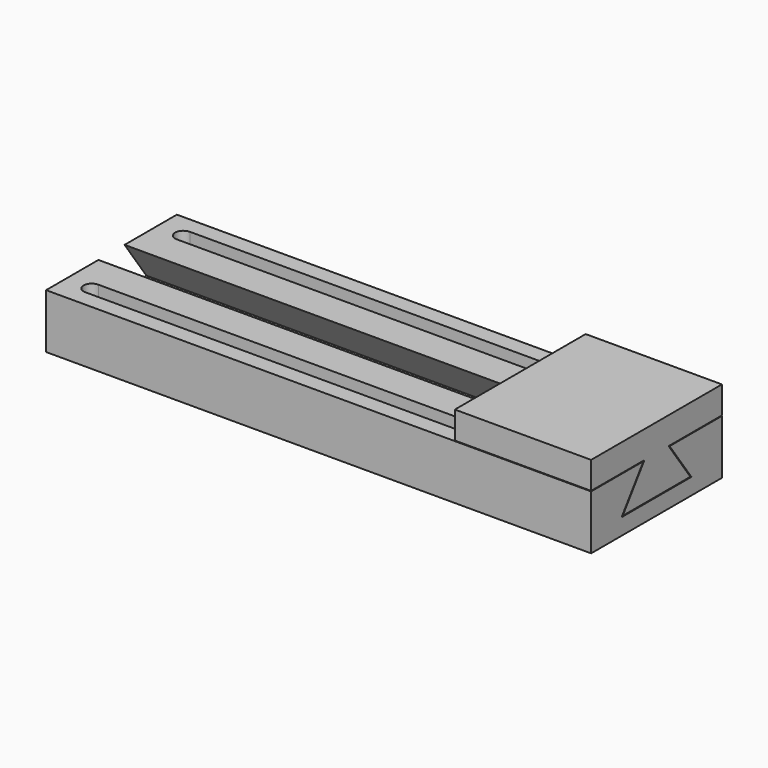
from build123d import *

# Parameters (mm, degrees)
F0_W     = 100
F0_H     = 9
F0_W_2   = 90.4385894537
F0_H_2   = 3
F1_DEPTH = 10
F0_H_3   = 6
F2_DEPTH = 3
F3_D     = 3
F3_DEPTH = 20
F3_TIP   = 0.9012909285
F5_DEPTH = 100.001
F6_DEPTH = 25


with BuildPart() as f1:
    # F0 (on Top) → F1 (new body)
    with BuildSketch(Plane.XY):
        with Locations((0, 10.5)):
            Rectangle(F0_W, F0_H)
        with Locations((0, 10.5)):
            Rectangle(F0_W_2, F0_H_2, mode=Mode.SUBTRACT)
        with Locations((0, 4.5)):
            Rectangle(F0_W, F0_H_2)
    extrude(amount=F1_DEPTH)



with BuildPart() as f1b:
    # F0 (on Top) → F1, piece 2 (new body)
    with BuildSketch(Plane.XY):
        with Locations((0, -10.5)):
            Rectangle(F0_W, F0_H)
        with Locations((0, -10.5)):
            Rectangle(F0_W_2, F0_H_2, mode=Mode.SUBTRACT)
        with Locations((0, -4.5)):
            Rectangle(F0_W, F0_H_2)
    extrude(amount=F1_DEPTH)


with BuildPart() as f1_1:
    add(f1.part)

    add(f1b.part)  # F2 merges F1b
    # F0 (on Top) → F2 (join)
    with BuildSketch(Plane.XY):
        Rectangle(F0_W, F0_H_3)
    extrude(amount=F2_DEPTH)

    # F3
    with Locations(Plane(origin=(0, 0, 0), x_dir=(1, 0, 0), z_dir=(0, 0, -1))):
        with Locations((-45.2192947268, 10.5), (45.2192947268, 10.5), (-45.2192947268, -10.5), (45.2192947268, -10.5)):
            Hole(F3_D / 2, depth=F3_DEPTH)
            with Locations((0, 0, -(F3_DEPTH + F3_TIP / 2))):  # 118° drill point
                Cone(0, F3_D / 2, F3_TIP, mode=Mode.SUBTRACT)

    # F4 (on face) → F5 (cut, through all)
    with BuildSketch(Plane.YZ.offset(50)):
        Polygon((-3, 3), (-3, 3.125), (-7.7571013345, 3.125), (-3, 9.7849418683), (-3, 10), (-8, 3), align=None)
        Polygon((3, 3.125), (3, 3), (8, 3), (3, 10), (3, 9.7849418683), (7.7571013345, 3.125), align=None)
        Polygon((-7.7571013345, 3.125), (-3, 3.125), (-3, 9.7849418683), align=None)
        Polygon((-3, 3.125), (3, 3.125), (3, 9.7849418683), (2.8463870488, 10), (2.8463870488, 10.1), (15, 10.1), (15, 15.1), (-15, 15.1), (-15, 10.1), (-2.8463870488, 10.1), (-2.8463870488, 10), (-3, 9.7849418683), align=None)
        Polygon((3, 9.7849418683), (3, 3.125), (7.7571013345, 3.125), align=None)
    extrude(amount=-F5_DEPTH, mode=Mode.SUBTRACT)


with BuildPart() as f6:
    # F4 (on face) → F6 (new body)
    with BuildSketch(Plane.YZ.offset(50)):
        Polygon((-3, 3.125), (3, 3.125), (3, 9.7849418683), (2.8463870488, 10), (2.8463870488, 10.1), (15, 10.1), (15, 15.1), (-15, 15.1), (-15, 10.1), (-2.8463870488, 10.1), (-2.8463870488, 10), (-3, 9.7849418683), align=None)
        Polygon((-7.7571013345, 3.125), (-3, 3.125), (-3, 9.7849418683), align=None)
        Polygon((3, 9.7849418683), (3, 3.125), (7.7571013345, 3.125), align=None)
    extrude(amount=-F6_DEPTH)


solid = Compound([f1_1.part, f6.part])
